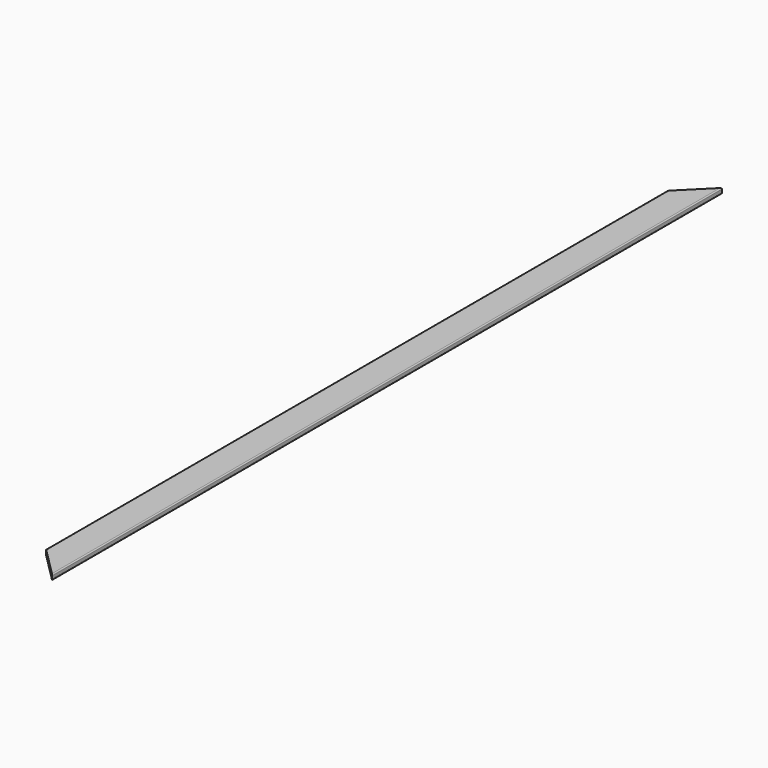
from build123d import *

# Parameters (mm, degrees)
F1_DEPTH = 1866.9
F3_DEPTH = 23.877


with BuildPart() as f1:
    # F0 (on Front) → F1 (new body, symmetric)
    with BuildSketch(Plane.XZ):
        with BuildLine():
            Line((63.246, 11.938), (-63.246, 11.938))
            ThreePointArc((-63.246, 11.938), (-66.658497, 10.524497), (-68.072, 7.112))
            Line((-68.072, 7.112), (-68.072, -7.112))
            ThreePointArc((-68.072, -7.112), (-66.658497, -10.524497), (-63.246, -11.938))
            Line((-63.246, -11.938), (63.246, -11.938))
            ThreePointArc((63.246, -11.938), (66.658497, -10.524497), (68.072, -7.112))
            Line((68.072, -7.112), (68.072, 7.112))
            ThreePointArc((68.072, 7.112), (66.658497, 10.524497), (63.246, 11.938))
        make_face()
    extrude(amount=F1_DEPTH, both=True)

    # F2 (on face) → F3 (cut, through all)
    with BuildSketch(Plane.XY.offset(11.938)):
        Polygon((68.072, -1866.9), (-68.072, -1730.756), (-68.072, -1866.9), align=None)
        Polygon((-68.072, 1866.9), (-68.072, 1730.756), (68.072, 1866.9), align=None)
    extrude(amount=-F3_DEPTH, mode=Mode.SUBTRACT)


solid = f1.part
